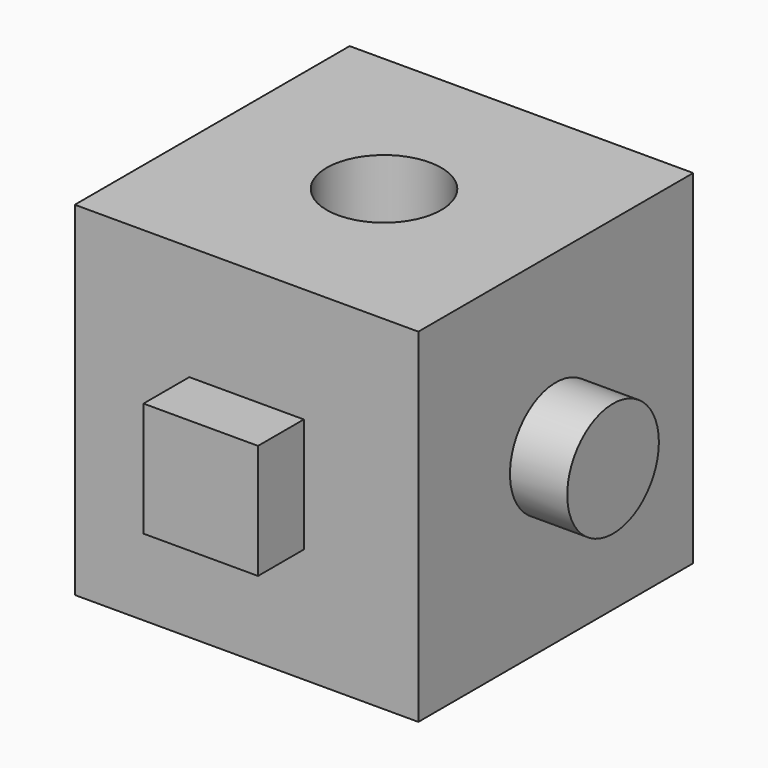
from build123d import *

# Parameters (mm, degrees)
F1_DEPTH = 76.2
F3_DEPTH = 12.7
F4_R     = 12.7
F5_DEPTH = 12.7
F7_D     = 25.4


with BuildPart() as f1:
    # F0 (on Front) → F1 (new body)
    with BuildSketch(Plane.XZ):
        Polygon((23.2129, 40.887778), (-52.9871, 40.887778), (-52.9871, -35.312222), (23.2129, -35.312222), (23.2129, -19.995111), align=None)
    extrude(amount=F1_DEPTH)

    # F2 (on face) → F3 (join)
    with BuildSketch(Plane.XZ.offset(76.2)):
        Polygon((-2.1871, 15.487778), (-27.5871, 15.487778), (-27.5871, -9.912222), (-2.1871, -9.912222), (-2.1871, 2.787778), (-2.1871, 5.203116), align=None)
    extrude(amount=F3_DEPTH)

    # F4 (on face) → F5 (join)
    with BuildSketch(Plane.YZ.offset(23.2129)):
        with Locations((-38.1, 2.787778)):
            Circle(F4_R)
    extrude(amount=F5_DEPTH)

    # F7 (through all)
    with Locations(Plane.XY.offset(40.887778)):
        with Locations((-14.8871, -38.1)):
            Hole(F7_D / 2)


solid = f1.part
